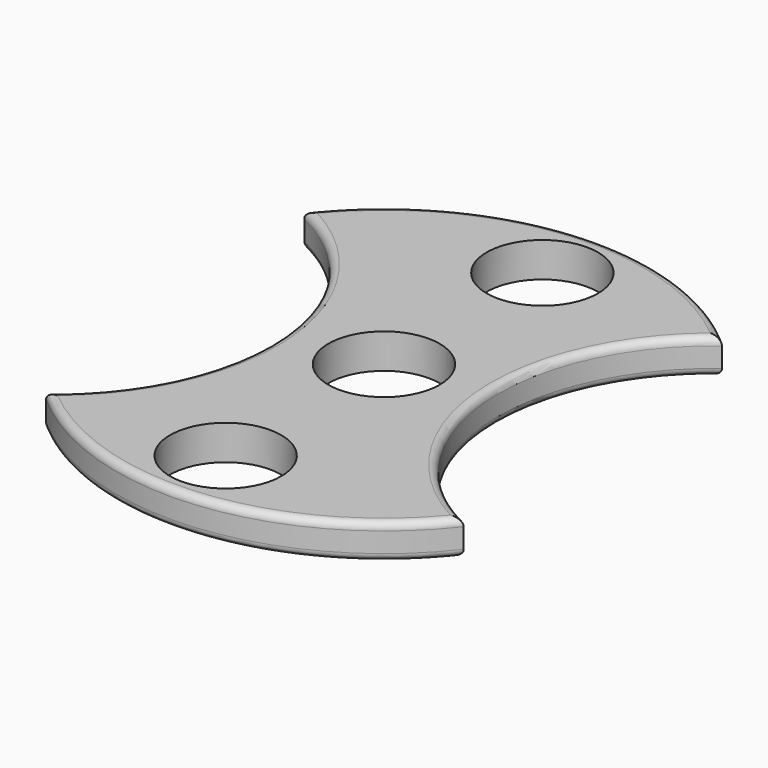
from build123d import *

# Parameters (mm, degrees)
F0_R     = 11.2
F1_DEPTH = 7
F2_R     = 1.5
F3_R     = 1.5


with BuildPart() as f1:
    # F0 (on Top) → F1 (new body)
    with BuildSketch(Plane.XY):
        with BuildLine():
            ThreePointArc((-42.542229, 33.110583), (-18.684815, -1.724094), (-35.765112, -40.336196))
            ThreePointArc((-35.765112, -40.336196), (4.953252, -53.680697), (42.542229, -33.110583))
            ThreePointArc((42.542229, -33.110583), (18.684815, 1.724094), (35.765112, 40.336196))
            ThreePointArc((35.765112, 40.336196), (-4.953252, 53.680697), (-42.542229, 33.110583))
        make_face()
        with Locations((0, -39.85231)):
            Circle(F0_R, mode=Mode.SUBTRACT)
        Circle(F0_R, mode=Mode.SUBTRACT)
        with Locations((0, 39.85231)):
            Circle(F0_R, mode=Mode.SUBTRACT)
    extrude(amount=F1_DEPTH)

    # F2
    f2_edges = [f1.edges().sort_by_distance(p)[0] for p in [
        (18.684815, 1.724094, 7),
        (4.953252, -53.680697, 7),
        (-18.684815, -1.724094, 7),
        (-4.953252, 53.680697, 7),
    ]]
    fillet(f2_edges, radius=F2_R)

    # F3
    f3_edges = [f1.edges().sort_by_distance(p)[0] for p in [
        (4.953252, -53.680697, 0),
        (18.684815, 1.724094, 0),
        (-4.953252, 53.680697, 0),
        (-18.684815, -1.724094, 0),
    ]]
    fillet(f3_edges, radius=F3_R)


solid = f1.part
